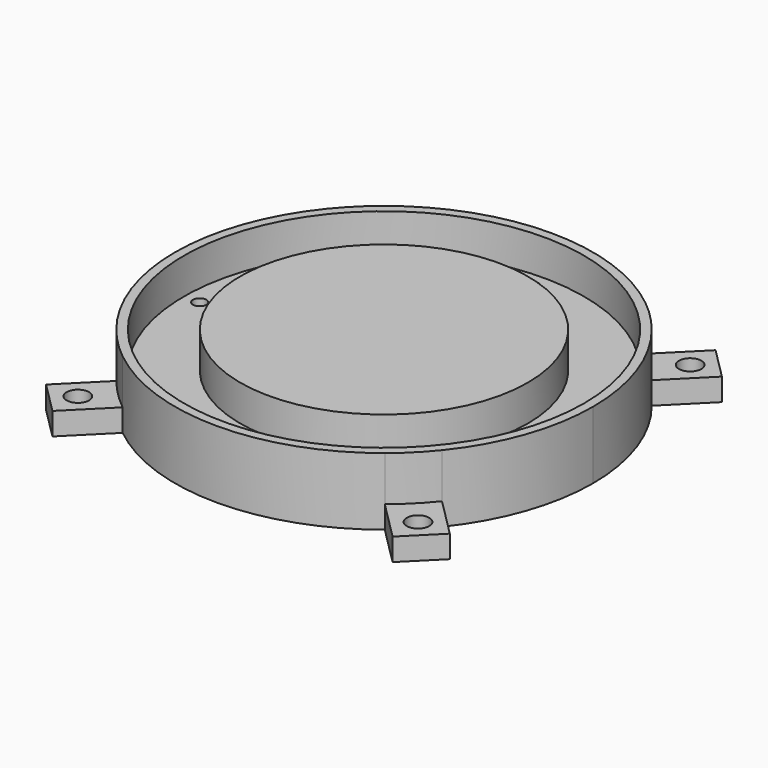
from build123d import *

# Parameters (mm, degrees)
F0_R     = 44.5
F0_R_2   = 1.5
F0_R_3   = 32
F1_DEPTH = 7
F2_DEPTH = 15
F0_R_4   = 2.5
F3_DEPTH = 5


with BuildPart() as f1:
    # F0 (on Top) → F1 (new body)
    with BuildSketch(Plane.XY):
        Circle(F0_R)
        with Locations((0, -41)):
            Circle(F0_R_2, mode=Mode.SUBTRACT)
        with Locations((-41, 0)):
            Circle(F0_R_2, mode=Mode.SUBTRACT)
        Circle(F0_R_3, mode=Mode.SUBTRACT)
        with Locations((41, 0)):
            Circle(F0_R_2, mode=Mode.SUBTRACT)
        with Locations((0, 41)):
            Circle(F0_R_2, mode=Mode.SUBTRACT)
    extrude(amount=F1_DEPTH)

    # F0 (on Top) → F2 (join)
    with BuildSketch(Plane.XY):
        with BuildLine():
            ThreePointArc((36.2253641288, -29.1542963169), (43.8561821867, -15.455914208), (46.5, 0))
            ThreePointArc((46.5, 0), (43.8561821867, 15.455914208), (36.2253641288, 29.1542963169))
            ThreePointArc((36.2253641288, 29.1542963169), (32.8804653252, 32.8804653252), (29.1542963169, 36.2253641288))
            ThreePointArc((29.1542963169, 36.2253641288), (0, 46.5), (-29.1542963169, 36.2253641288))
            ThreePointArc((-29.1542963169, 36.2253641288), (-32.8804653252, 32.8804653252), (-36.2253641288, 29.1542963169))
            ThreePointArc((-36.2253641288, 29.1542963169), (-46.5, 0), (-36.2253641288, -29.1542963169))
            ThreePointArc((-36.2253641288, -29.1542963169), (-32.8804653252, -32.8804653252), (-29.1542963169, -36.2253641288))
            ThreePointArc((-29.1542963169, -36.2253641288), (0, -46.5), (29.1542963169, -36.2253641288))
            ThreePointArc((29.1542963169, -36.2253641288), (32.8804653252, -32.8804653252), (36.2253641288, -29.1542963169))
        make_face()
        Circle(F0_R, mode=Mode.SUBTRACT)
        Circle(F0_R_3)
    extrude(amount=F2_DEPTH)

    # F0 (on Top) → F3 (join)
    with BuildSketch(Plane.XY):
        with BuildLine():
            Line((-37.8302127935, -44.9012806053), (-29.1542963169, -36.2253641288))
            ThreePointArc((-29.1542963169, -36.2253641288), (-32.8804653252, -32.8804653252), (-36.2253641288, -29.1542963169))
            Line((-36.2253641288, -29.1542963169), (-44.9012806053, -37.8302127935))
            Line((-44.9012806053, -37.8302127935), (-37.8302127935, -44.9012806053))
        make_face()
        with Locations((-37.8302127935, -37.8302127935)):
            Circle(F0_R_4, mode=Mode.SUBTRACT)
        with BuildLine():
            ThreePointArc((-36.2253641288, 29.1542963169), (-32.8804653252, 32.8804653252), (-29.1542963169, 36.2253641288))
            Line((-29.1542963169, 36.2253641288), (-37.8302127935, 44.9012806053))
            Line((-37.8302127935, 44.9012806053), (-44.9012806053, 37.8302127935))
            Line((-44.9012806053, 37.8302127935), (-36.2253641288, 29.1542963169))
        make_face()
        with Locations((-37.8302127935, 37.8302127935)):
            Circle(F0_R_4, mode=Mode.SUBTRACT)
        with BuildLine():
            ThreePointArc((29.1542963169, 36.2253641288), (32.8804653252, 32.8804653252), (36.2253641288, 29.1542963169))
            Line((36.2253641288, 29.1542963169), (44.9012806053, 37.8302127935))
            Line((44.9012806053, 37.8302127935), (37.8302127935, 44.9012806053))
            Line((37.8302127935, 44.9012806053), (29.1542963169, 36.2253641288))
        make_face()
        with Locations((37.8302127935, 37.8302127935)):
            Circle(F0_R_4, mode=Mode.SUBTRACT)
        with BuildLine():
            Line((44.9012806053, -37.8302127935), (36.2253641288, -29.1542963169))
            ThreePointArc((36.2253641288, -29.1542963169), (32.8804653252, -32.8804653252), (29.1542963169, -36.2253641288))
            Line((29.1542963169, -36.2253641288), (37.8302127935, -44.9012806053))
            Line((37.8302127935, -44.9012806053), (44.9012806053, -37.8302127935))
        make_face()
        with Locations((37.8302127935, -37.8302127935)):
            Circle(F0_R_4, mode=Mode.SUBTRACT)
    extrude(amount=F3_DEPTH)


solid = f1.part
